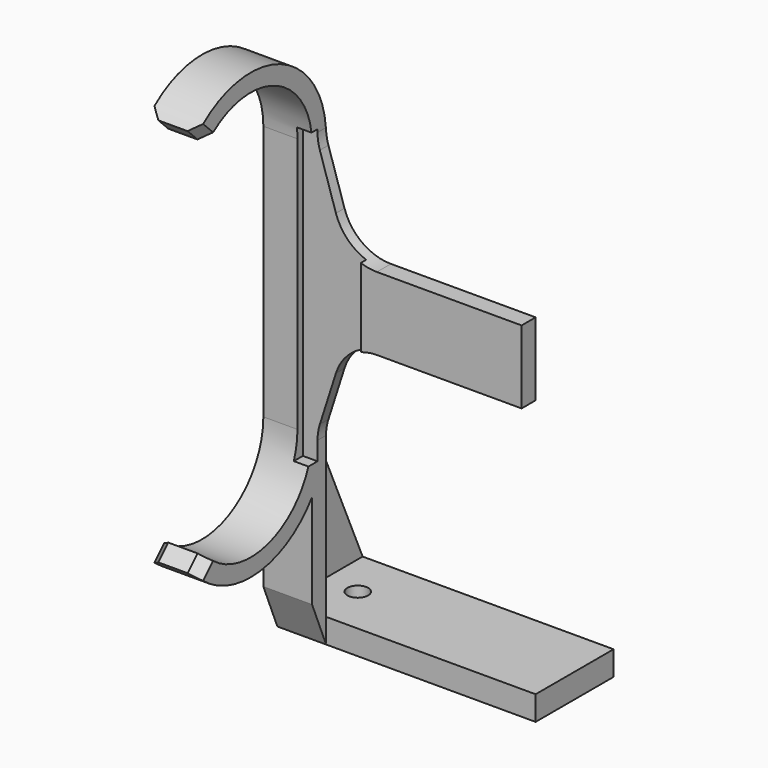
from build123d import *

# Parameters (mm, degrees)
SKETCH004_R       = 2.125
PAD001_DEPTH      = 5
PAD002_DEPTH      = 1.5
PAD003_DEPTH      = 8.5
PAD_DEPTH         = 53
SKETCH001_W       = 43
SKETCH001_H       = 38.1
POCKET_DEPTH      = 19.351
POCKET_DEPTH_BACK = 13.683516
CHAMFER_1_SIZE2   = 6
CHAMFER_1_SIZE    = 18.75
CHAMFER_2_SIZE2   = 6
CHAMFER_2_SIZE    = 18.75
FILLET_R          = 10
SKETCH002_W       = 60
SKETCH002_H       = 13
POCKET001_DEPTH   = 1.4
CHAMFER001_SIZE   = 2


with BuildPart() as body001:
    # Sketch004 → Pad001 (new body)
    with BuildSketch(Plane.XY):
        Polygon((0, 0), (0, 10), (53, 10), (53, -10), (0, -10), align=None)
        with Locations((44.5, 0)):
            Circle(SKETCH004_R, mode=Mode.SUBTRACT)
    extrude(amount=-PAD001_DEPTH)

    # Sketch005 (on Face3 of Pad001) → Pad002 (join)
    with BuildSketch(Plane.YZ.offset(53)):
        Polygon((-10, 45), (10, 0), (-10, 0), (-10, -5), (-13.6, 3.691169), (-13.6, 45), align=None)
    extrude(amount=-PAD002_DEPTH)

    # Sketch006 (on Face9 of Pad002) → Pad003 (join)
    with BuildSketch(Plane(origin=(51.5, 0, 0), x_dir=(0, -1, 0), z_dir=(-1, 0, 0))):
        Polygon((10, 35), (10, -5), (13.6, 3.691169), (13.6, 29), (11, 29), (11, 35), align=None)
    extrude(amount=PAD003_DEPTH)


with BuildPart() as body001_1:
    # Body001 placement: moved
    add(body001.part.moved(Location((0, 29.35, 0))))


with BuildPart() as body002:
    # Sketch → Pad (new body)
    with BuildSketch(Plane.YZ):
        with BuildLine():
            ThreePointArc((15.75, 71.85), (6.027264, 86.401103), (-11.136932, 82.986932))
            Line((-11.136932, 82.986932), (-13.682516, 85.532516))
            ThreePointArc((19.35, 71.85), (7.404924, 89.727069), (-13.682516, 85.532516))
            Line((19.35, 71.85), (19.35, 19.35))
            ThreePointArc((-13.682516, 5.667484), (7.404924, 1.472931), (19.35, 19.35))
            Line((-11.136932, 8.213068), (-13.682516, 5.667484))
            ThreePointArc((-11.136932, 8.213068), (6.027264, 4.798897), (15.75, 19.35))
            Line((15.75, 71.85), (15.75, 19.35))
        make_face()
    extrude(amount=PAD_DEPTH)

    # Sketch001 → Pocket (cut, two sides)
    with BuildSketch(Plane.XZ) as pocket_sk:
        with Locations((21.5, 19.05)):
            Rectangle(SKETCH001_W, SKETCH001_H)
        with Locations((21.5, 72.15)):
            Rectangle(SKETCH001_W, SKETCH001_H)
    extrude(amount=-POCKET_DEPTH, mode=Mode.SUBTRACT)
    extrude(pocket_sk.sketch, amount=POCKET_DEPTH_BACK, mode=Mode.SUBTRACT)

    # Chamfer 1
    chamfer_1_edges = [body002.edges().sort_by_distance(p)[0] for p in [
        (43, 17.55, 53.1),
    ]]
    chamfer_1_side = body002.faces().sort_by_distance((43, 16.254258, 62.475))[0]
    chamfer(chamfer_1_edges, length=CHAMFER_1_SIZE, length2=CHAMFER_1_SIZE2, reference=chamfer_1_side)

    # Chamfer 2
    chamfer_2_edges = [body002.edges().sort_by_distance(p)[0] for p in [
        (43, 17.55, 38.1),
    ]]
    chamfer_2_side = body002.faces().sort_by_distance((43, -7.211953, 1.938804))[0]
    chamfer(chamfer_2_edges, length=CHAMFER_2_SIZE, length2=CHAMFER_2_SIZE2, reference=chamfer_2_side)

    # Fillet
    fillet_edges = [body002.edges().sort_by_distance(p)[0] for p in [
        (37, 17.55, 38.1),
        (43, 17.55, 19.35),
        (37, 17.55, 53.1),
        (43, 17.55, 71.85),
    ]]
    fillet(fillet_edges, radius=FILLET_R)

    # Sketch002 → Pocket001 (cut, symmetric)
    with BuildSketch(Plane(origin=(0, 15.75, 0), x_dir=(0, 0, -1), z_dir=(0, -1, 0))):
        with Locations((-44, 39.5)):
            Rectangle(SKETCH002_W, SKETCH002_H)
    extrude(amount=POCKET001_DEPTH, both=True, mode=Mode.SUBTRACT)

    # Chamfer001
    chamfer001_edges = [body002.edges().sort_by_distance(p)[0] for p in [
        (43, -12.409724, 6.940276),
        (53, -12.409724, 6.940276),
        (43, -12.409724, 84.259724),
        (53, -12.409724, 84.259724),
    ]]
    chamfer(chamfer001_edges, length=CHAMFER001_SIZE)


with BuildPart() as body002_1:
    # Body placement: moved
    add(body002.part.moved(Location((0, 0, 15))))

    # Connect: union Body001
    add(body001_1.part)


with BuildPart() as part_mirroring:
    # Part__Mirroring: instance of Body002
    add(body002_1.part.mirror(Plane(origin=(0, 0, 0), x_dir=(0, -1, 0), z_dir=(1, 0, 0))))


solid = part_mirroring.part
